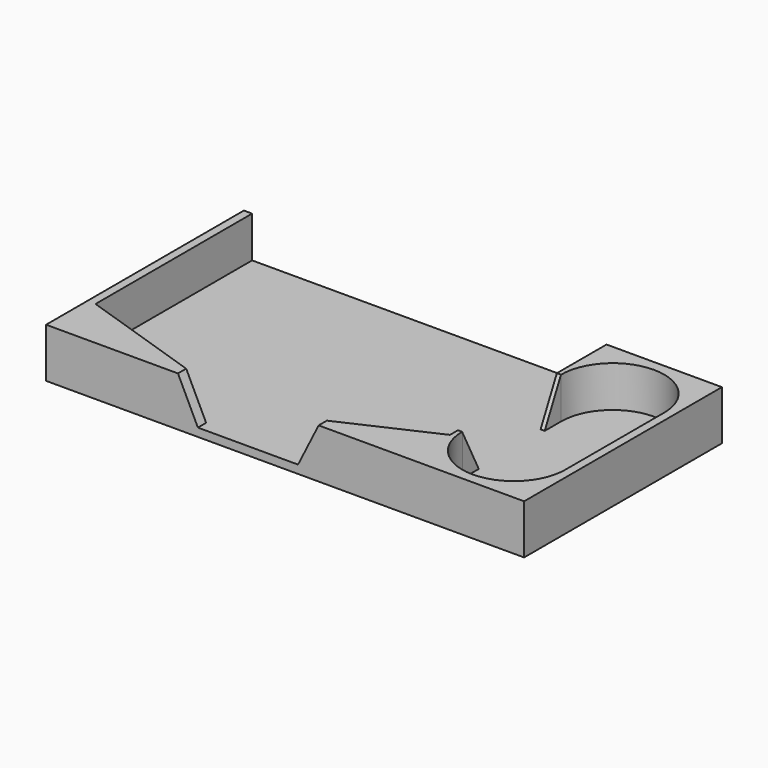
from build123d import *

# Parameters (mm, degrees)
F1_DEPTH  = 10
F2_W      = 86
F2_H      = 57.5
F3_DEPTH  = 2
F5_DEPTH  = 60.001
F7_DEPTH  = 0.5
F9_DEPTH  = 0.5
F10_R     = 0.5
F11_DEPTH = 12.001
F13_DEPTH = 3


with BuildPart() as f1:
    # F0 (on Top) → F1 (new body)
    with BuildSketch(Plane.XY):
        Polygon((-58, -30), (58, -30), (58, 30), (30, 30), (30, -27.5), (-56, -27.5), (-56, 30), (-58, 30), align=None)
        with BuildLine():
            ThreePointArc((31, 15), (43.5, 27.5), (56, 15))
            Line((56, 15), (56, -15))
            ThreePointArc((56, -15), (43.5, -27.5), (31, -15))
            Line((31, -15), (31, 15))
        make_face(mode=Mode.SUBTRACT)
    extrude(amount=F1_DEPTH)

    # F2 (on face) → F3 (join)
    with BuildSketch(Plane(origin=(0, 0, 0), x_dir=(1, 0, 0), z_dir=(0, 0, -1))):
        with Locations((-13, -1.25)):
            Rectangle(F2_W, F2_H)
        Polygon((30, -30), (58, -30), (58, 30), (-58, 30), (-58, -30), (-56, -30), (-56, 27.5), (30, 27.5), align=None)
        with BuildLine():
            Line((56, 15), (56, -15))
            ThreePointArc((56, -15), (43.5, -27.5), (31, -15))
            Line((31, -15), (31, 15))
            ThreePointArc((31, 15), (43.5, 27.5), (56, 15))
        make_face(mode=Mode.SUBTRACT)
        with BuildLine():
            ThreePointArc((31, -15), (43.5, -27.5), (56, -15))
            Line((56, -15), (56, 15))
            ThreePointArc((56, 15), (43.5, 27.5), (31, 15))
            Line((31, 15), (31, -15))
        make_face()
    extrude(amount=F3_DEPTH)

    # F4 (on face) → F5 (cut, through all)
    with BuildSketch(Plane.XZ.offset(30)):
        Polygon((8.1389684882, 10), (-26, 10), (-21.1587326229, 0), (3.1389684882, 0), align=None)
    extrude(amount=-F5_DEPTH, mode=Mode.SUBTRACT)

    # F6 (on face) → F7 (join)
    with BuildSketch(Plane.XY.offset(10)):
        Polygon((-56, -27.5), (-26, -27.5), (-56, -17.5), align=None)
    extrude(amount=-F7_DEPTH)

    # F8 (on face) → F9 (join)
    with BuildSketch(Plane.XY.offset(10)):
        Polygon((30, -17.5), (8.1389684882, -27.5), (30, -27.5), align=None)
    extrude(amount=-F9_DEPTH)

    # F10 (on face) → F11 (cut, through all)
    with BuildSketch(Plane(origin=(0, 0, -2), x_dir=(1, 0, 0), z_dir=(0, 0, -1))):
        with Locations((43.5, 15)):
            Circle(F10_R)
    extrude(amount=-F11_DEPTH, mode=Mode.SUBTRACT)

    # F12 (on face) → F13 (cut)
    with BuildSketch(Plane(origin=(30, 0, 0), x_dir=(0, -1, 0), z_dir=(-1, 0, 0))):
        Polygon((15.0695058703, 10), (-14.9304941297, 10), (-10, 0), (10, 0), align=None)
    extrude(amount=-F13_DEPTH, mode=Mode.SUBTRACT)


solid = f1.part
